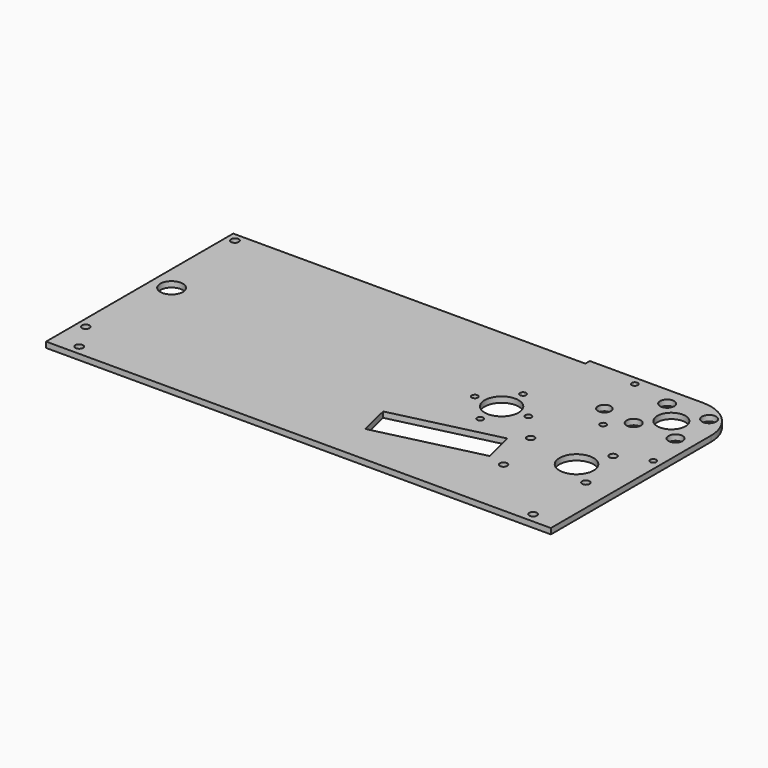
from build123d import *

# Parameters (mm, degrees)
F0_R     = 2.15265
F0_R_2   = 1.7272
F0_R_3   = 2.1
F0_R_4   = 9.587497
F0_R_5   = 6.35
F0_R_6   = 9.525
F0_R_7   = 3.96875
F0_R_8   = 3.660757
F0_R_9   = 7.9375
F1_DEPTH = 3.175


with BuildPart() as f1:
    # F0 (on Top) → F1 (new body)
    with BuildSketch(Plane.XY):
        with BuildLine():
            Line((0, 22.225), (-63.674803, 22.225))
            Line((-63.674803, 22.225), (-63.674803, 19.05))
            Line((-63.674803, 19.05), (-261.733055, 19.05))
            Line((-261.733055, 19.05), (-261.733055, -112.545774))
            Line((-261.733055, -112.545774), (22.225, -112.545774))
            Line((22.225, -112.545774), (22.225, -101.750774))
            Line((22.225, -101.750774), (22.225, 0))
            ThreePointArc((22.225, 0), (15.715448, 15.715448), (0, 22.225))
        make_face()
        with Locations((-247.445555, -107.148274)):
            Circle(F0_R, mode=Mode.SUBTRACT)
        with Locations((-256.970555, -90.638274)):
            Circle(F0_R, mode=Mode.SUBTRACT)
        with Locations((7.9375, -107.148274)):
            Circle(F0_R, mode=Mode.SUBTRACT)
        Polygon((-104.610379, -71.945744), (-45.880908, -57.946106), (-41.612835, -75.850975), (-100.342306, -89.850613), align=None, mode=Mode.SUBTRACT)
        with Locations((-66.948152, -50.782957)):
            Circle(F0_R_2, mode=Mode.SUBTRACT)
        with Locations((-31.697243, -78.418473)):
            Circle(F0_R_3, mode=Mode.SUBTRACT)
        with Locations((7.212551, -69.143351)):
            Circle(F0_R_3, mode=Mode.SUBTRACT)
        with Locations((-38.189829, -51.181617)):
            Circle(F0_R_3, mode=Mode.SUBTRACT)
        with Locations((-6.879837, -58.110361)):
            Circle(F0_R_4, mode=Mode.SUBTRACT)
        with Locations((-250.620555, -38.175387)):
            Circle(F0_R_5, mode=Mode.SUBTRACT)
        with Locations((-256.970555, 14.2875)):
            Circle(F0_R, mode=Mode.SUBTRACT)
        with Locations((-82.029402, -35.701707)):
            Circle(F0_R_2, mode=Mode.SUBTRACT)
        with Locations((-66.948152, -35.701707)):
            Circle(F0_R_6, mode=Mode.SUBTRACT)
        with Locations((-51.866902, -35.701707)):
            Circle(F0_R_2, mode=Mode.SUBTRACT)
        with Locations((-66.948152, -20.620457)):
            Circle(F0_R_2, mode=Mode.SUBTRACT)
        with Locations((0.719966, -41.906495)):
            Circle(F0_R_3, mode=Mode.SUBTRACT)
        with Locations((17.4625, -34.548124)):
            Circle(F0_R_2, mode=Mode.SUBTRACT)
        with Locations((-21.328108, -21.328108)):
            Circle(F0_R_2, mode=Mode.SUBTRACT)
        with Locations((-11.786586, -11.786586)):
            Circle(F0_R_7, mode=Mode.SUBTRACT)
        with Locations((11.786586, -11.786586)):
            Circle(F0_R_7, mode=Mode.SUBTRACT)
        with Locations((-30.356012, -9.164019)):
            Circle(F0_R_8, mode=Mode.SUBTRACT)
        Circle(F0_R_9, mode=Mode.SUBTRACT)
        with Locations((-34.548124, 17.4625)):
            Circle(F0_R_2, mode=Mode.SUBTRACT)
        with Locations((-11.786586, 11.786586)):
            Circle(F0_R_7, mode=Mode.SUBTRACT)
        with Locations((11.786586, 11.786586)):
            Circle(F0_R_7, mode=Mode.SUBTRACT)
    extrude(amount=F1_DEPTH)


solid = f1.part
